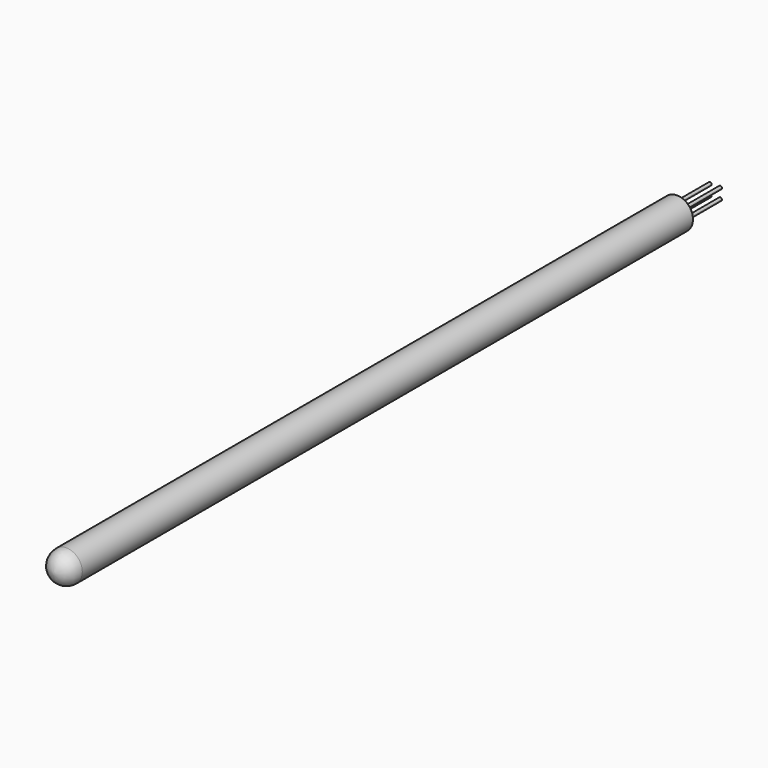
from build123d import *

# Parameters (mm, degrees)
F0_R     = 3.175
F1_DEPTH = 152.4
F4_R     = 0.3175
F5_DEPTH = 9.525


with BuildPart() as f1:
    # F0 (on Front) → F1 (new body)
    with BuildSketch(Plane.XZ):
        Circle(F0_R)
    extrude(amount=F1_DEPTH)

    # F2 (on Right) → F3 (revolve)
    with BuildSketch(Plane.YZ):
        with BuildLine():
            Line((-152.4, 0), (-152.4, 3.175))
            ThreePointArc((-152.4, 3.175), (-154.645064, 2.245064), (-155.575, 0))
            Line((-155.575, 0), (-152.4, 0))
        make_face()
    revolve(axis=Axis((0, -168.975449, 0), (0, -1, 0)))

    # F4 (on face) → F5 (join)
    with BuildSketch(Plane(origin=(0, 0, 0), x_dir=(-1, 0, 0), z_dir=(0, 1, 0))):
        with Locations((1.016, -1.016)):
            Circle(F4_R)
        with Locations((-1.016, -1.016)):
            Circle(F4_R)
        with Locations((1.016, 1.016)):
            Circle(F4_R)
        with Locations((-1.016, 1.016)):
            Circle(F4_R)
    extrude(amount=F5_DEPTH)


solid = f1.part
